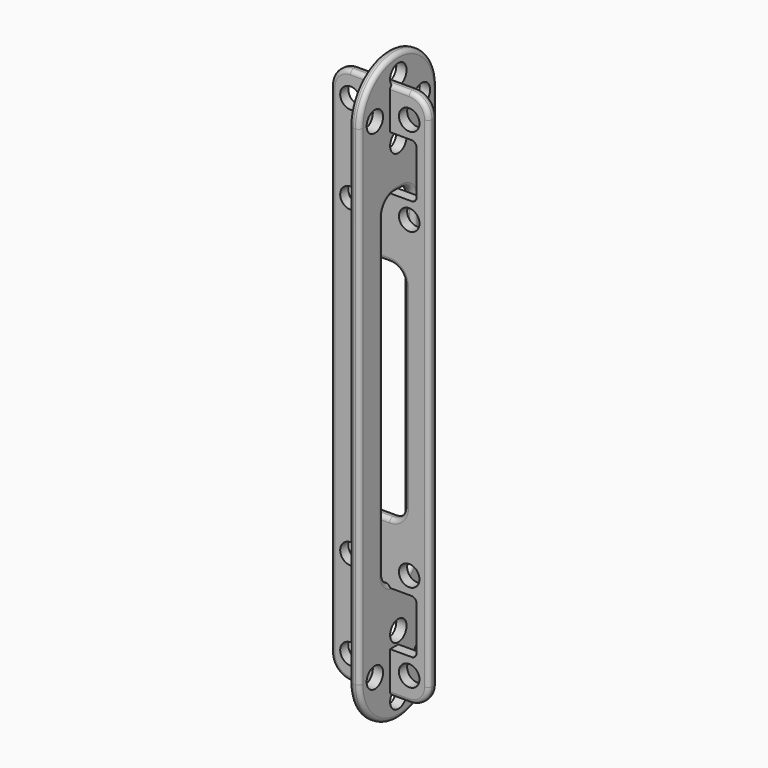
from build123d import *

# Parameters (mm, degrees)
F4_R      = 2.1
F5_DEPTH  = 2.1
F7_DEPTH  = 2.1
F8_R      = 0.84
F9_R      = 2.1
F10_DEPTH = 2.1
F11_R     = 0.84


with BuildPart() as f5:
    # F4 (on Front) → F5 (new body)
    with BuildSketch(Plane.XZ):
        with BuildLine():
            ThreePointArc((10, 101), (8.8284271247, 103.8284271247), (6, 105))
            Line((6, 105), (-6, 105))
            ThreePointArc((-6, 105), (-8.8284271247, 103.8284271247), (-10, 101))
            Line((-10, 101), (-10, -1))
            ThreePointArc((-10, -1), (-8.8284271247, -3.8284271247), (-6, -5))
            Line((-6, -5), (6, -5))
            ThreePointArc((6, -5), (8.8284271247, -3.8284271247), (10, -1))
            Line((10, -1), (10, 101))
        make_face()
        with Locations((-6, 0)):
            Circle(F4_R, mode=Mode.SUBTRACT)
        with Locations((-6, 18)):
            Circle(F4_R, mode=Mode.SUBTRACT)
        with Locations((6, 0)):
            Circle(F4_R, mode=Mode.SUBTRACT)
        with Locations((6, 18)):
            Circle(F4_R, mode=Mode.SUBTRACT)
        with BuildLine():
            ThreePointArc((5, 30), (4.1213203436, 27.8786796564), (2, 27))
            Line((2, 27), (-2, 27))
            ThreePointArc((-2, 27), (-4.1213203436, 27.8786796564), (-5, 30))
            Line((-5, 30), (-5, 70))
            ThreePointArc((-5, 70), (-4.1213203436, 72.1213203436), (-2, 73))
            Line((-2, 73), (2, 73))
            ThreePointArc((2, 73), (4.1213203436, 72.1213203436), (5, 70))
            Line((5, 70), (5, 30))
        make_face(mode=Mode.SUBTRACT)
        with Locations((-6, 82)):
            Circle(F4_R, mode=Mode.SUBTRACT)
        with Locations((-6, 100)):
            Circle(F4_R, mode=Mode.SUBTRACT)
        with Locations((6, 82)):
            Circle(F4_R, mode=Mode.SUBTRACT)
        with Locations((6, 100)):
            Circle(F4_R, mode=Mode.SUBTRACT)
    extrude(amount=F5_DEPTH)

    # F6 (on Front) → F7 (cut, through all)
    with BuildSketch(Plane.XZ):
        with BuildLine():
            Line((6.5, 14.5), (-0.5, 14.5))
            ThreePointArc((-0.5, 14.5), (-1.2071067812, 14.2071067812), (-1.5, 13.5))
            Line((-1.5, 13.5), (-1.5, 4.5))
            ThreePointArc((-1.5, 4.5), (-1.2071067812, 3.7928932188), (-0.5, 3.5))
            Line((-0.5, 3.5), (6.5, 3.5))
            ThreePointArc((6.5, 3.5), (7.2071067812, 3.7928932188), (7.5, 4.5))
            Line((7.5, 4.5), (7.5, 13.5))
            ThreePointArc((7.5, 13.5), (7.2071067812, 14.2071067812), (6.5, 14.5))
        make_face()
        with BuildLine():
            ThreePointArc((-1.5, 86.5), (-1.2071067812, 85.7928932188), (-0.5, 85.5))
            Line((-0.5, 85.5), (6.5, 85.5))
            ThreePointArc((6.5, 85.5), (7.2071067812, 85.7928932188), (7.5, 86.5))
            Line((7.5, 86.5), (7.5, 95.5))
            ThreePointArc((7.5, 95.5), (7.2071067812, 96.2071067812), (6.5, 96.5))
            Line((6.5, 96.5), (-0.5, 96.5))
            ThreePointArc((-0.5, 96.5), (-1.2071067812, 96.2071067812), (-1.5, 95.5))
            Line((-1.5, 95.5), (-1.5, 86.5))
        make_face()
    extrude(amount=F7_DEPTH, mode=Mode.SUBTRACT)

    # F8
    f8_edges = [f5.edges().sort_by_distance(p)[0] for p in [
        (10, -1.05, -1),
        (10, -1.05, 101),
        (10, 0, 50),
        (10, -2.1, 50),
        (-5, -1.05, 30),
        (-5, -1.05, 70),
        (-5, 0, 50),
        (-5, -2.1, 50),
    ]]
    fillet(f8_edges, radius=F8_R)


with BuildPart() as f10:
    # F9 (on Right) → F10 (new body)
    with BuildSketch(Plane.YZ):
        with BuildLine():
            ThreePointArc((-9.9, 100), (0, 90.1), (9.9, 100))
            ThreePointArc((9.9, 100), (0, 109.9), (-9.9, 100))
        make_face()
        with Locations((-6, 100)):
            Circle(F9_R, mode=Mode.SUBTRACT)
        with Locations((0, 94)):
            Circle(F9_R, mode=Mode.SUBTRACT)
        with Locations((0, 100)):
            Circle(F9_R, mode=Mode.SUBTRACT)
        with Locations((0, 106)):
            Circle(F9_R, mode=Mode.SUBTRACT)
        with Locations((6, 100)):
            Circle(F9_R, mode=Mode.SUBTRACT)
        with BuildLine():
            Line((9.9, 0), (9.9, 100))
            ThreePointArc((9.9, 100), (0, 90.1), (-9.9, 100))
            Line((-9.9, 100), (-9.9, 0))
            ThreePointArc((-9.9, 0), (0, 9.9), (9.9, 0))
        make_face()
        with BuildLine():
            ThreePointArc((3.9, 17.9), (3.0213203436, 15.7786796564), (0.9, 14.9))
            Line((0.9, 14.9), (-0.9, 14.9))
            ThreePointArc((-0.9, 14.9), (-3.0213203436, 15.7786796564), (-3.9, 17.9))
            Line((-3.9, 17.9), (-3.9, 82.1))
            ThreePointArc((-3.9, 82.1), (-3.0213203436, 84.2213203436), (-0.9, 85.1))
            Line((-0.9, 85.1), (0.9, 85.1))
            ThreePointArc((0.9, 85.1), (3.0213203436, 84.2213203436), (3.9, 82.1))
            Line((3.9, 82.1), (3.9, 17.9))
        make_face(mode=Mode.SUBTRACT)
        with BuildLine():
            ThreePointArc((-9.9, 0), (0, -9.9), (9.9, 0))
            ThreePointArc((9.9, 0), (0, 9.9), (-9.9, 0))
        make_face()
        with Locations((-6, 0)):
            Circle(F9_R, mode=Mode.SUBTRACT)
        with Locations((0, -6)):
            Circle(F9_R, mode=Mode.SUBTRACT)
        Circle(F9_R, mode=Mode.SUBTRACT)
        with Locations((0, 6)):
            Circle(F9_R, mode=Mode.SUBTRACT)
        with Locations((6, 0)):
            Circle(F9_R, mode=Mode.SUBTRACT)
    extrude(amount=F10_DEPTH)

    # F11
    f11_edges = [f10.edges().sort_by_distance(p)[0] for p in [
        (1.05, 9.9, 0),
        (1.05, 9.9, 100),
        (0, 9.9, 50),
        (2.1, 9.9, 50),
        (1.05, -3.9, 17.9),
        (1.05, -3.9, 82.1),
        (0, -3.9, 50),
        (2.1, -3.9, 50),
    ]]
    fillet(f11_edges, radius=F11_R)


solid = Compound([f5.part, f10.part])
